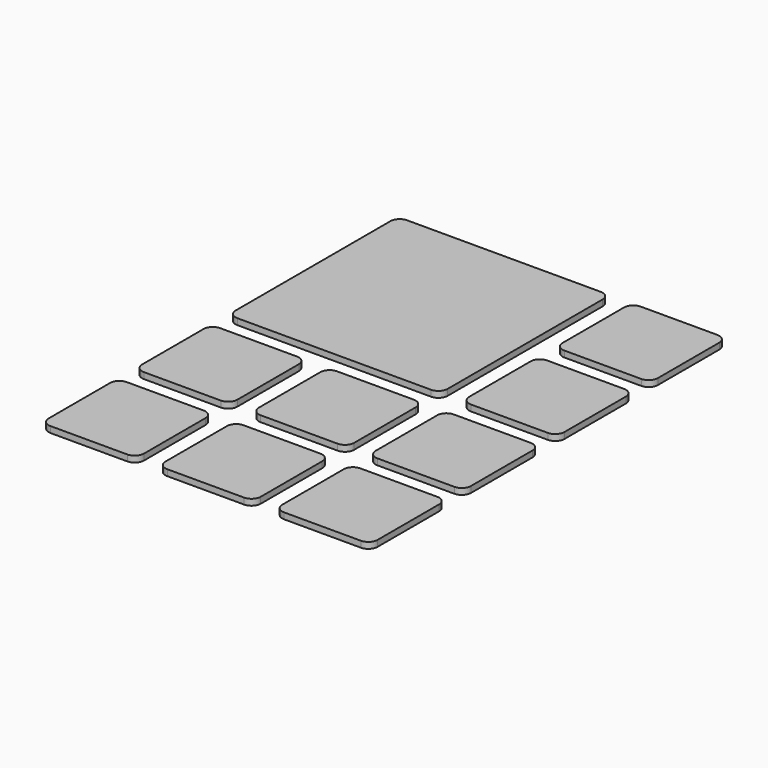
from build123d import *

# Parameters (mm, degrees)
F1_DEPTH = 1


with BuildPart() as f1:
    # F0 (on Top) → F1 (new body)
    with BuildSketch(Plane.XY):
        with BuildLine():
            Line((15.75, 17.25), (3.25, 17.25))
            ThreePointArc((3.25, 17.25), (2.18934, 16.81066), (1.75, 15.75))
            Line((1.75, 15.75), (1.75, 3.25))
            ThreePointArc((1.75, 3.25), (2.18934, 2.18934), (3.25, 1.75))
            Line((3.25, 1.75), (15.75, 1.75))
            ThreePointArc((15.75, 1.75), (16.81066, 2.18934), (17.25, 3.25))
            Line((17.25, 3.25), (17.25, 15.75))
            ThreePointArc((17.25, 15.75), (16.81066, 16.81066), (15.75, 17.25))
        make_face()
        with BuildLine():
            Line((17.25, 22.25), (17.25, 34.75))
            ThreePointArc((17.25, 34.75), (16.81066, 35.81066), (15.75, 36.25))
            Line((15.75, 36.25), (3.25, 36.25))
            ThreePointArc((3.25, 36.25), (2.18934, 35.81066), (1.75, 34.75))
            Line((1.75, 34.75), (1.75, 22.25))
            ThreePointArc((1.75, 22.25), (2.18934, 21.18934), (3.25, 20.75))
            Line((3.25, 20.75), (15.75, 20.75))
            ThreePointArc((15.75, 20.75), (16.81066, 21.18934), (17.25, 22.25))
        make_face()
        with BuildLine():
            Line((1.75, 53.75), (1.75, 41.25))
            ThreePointArc((1.75, 41.25), (2.18934, 40.18934), (3.25, 39.75))
            Line((3.25, 39.75), (15.75, 39.75))
            Line((15.75, 39.75), (22.25, 39.75))
            Line((22.25, 39.75), (34.75, 39.75))
            ThreePointArc((34.75, 39.75), (35.81066, 40.18934), (36.25, 41.25))
            Line((36.25, 41.25), (36.25, 53.75))
            Line((36.25, 53.75), (36.25, 60.25))
            Line((36.25, 60.25), (36.25, 72.75))
            ThreePointArc((36.25, 72.75), (35.81066, 73.81066), (34.75, 74.25))
            Line((34.75, 74.25), (22.25, 74.25))
            Line((22.25, 74.25), (15.75, 74.25))
            Line((15.75, 74.25), (3.25, 74.25))
            ThreePointArc((3.25, 74.25), (2.18934, 73.81066), (1.75, 72.75))
            Line((1.75, 72.75), (1.75, 60.25))
            Line((1.75, 60.25), (1.75, 53.75))
        make_face()
        with BuildLine():
            Line((36.25, 3.25), (36.25, 15.75))
            ThreePointArc((36.25, 15.75), (35.81066, 16.81066), (34.75, 17.25))
            Line((34.75, 17.25), (22.25, 17.25))
            ThreePointArc((22.25, 17.25), (21.18934, 16.81066), (20.75, 15.75))
            Line((20.75, 15.75), (20.75, 3.25))
            ThreePointArc((20.75, 3.25), (21.18934, 2.18934), (22.25, 1.75))
            Line((22.25, 1.75), (34.75, 1.75))
            ThreePointArc((34.75, 1.75), (35.81066, 2.18934), (36.25, 3.25))
        make_face()
        with BuildLine():
            Line((36.25, 22.25), (36.25, 34.75))
            ThreePointArc((36.25, 34.75), (35.81066, 35.81066), (34.75, 36.25))
            Line((34.75, 36.25), (22.25, 36.25))
            ThreePointArc((22.25, 36.25), (21.18934, 35.81066), (20.75, 34.75))
            Line((20.75, 34.75), (20.75, 22.25))
            ThreePointArc((20.75, 22.25), (21.18934, 21.18934), (22.25, 20.75))
            Line((22.25, 20.75), (34.75, 20.75))
            ThreePointArc((34.75, 20.75), (35.81066, 21.18934), (36.25, 22.25))
        make_face()
        with BuildLine():
            Line((55.25, 3.25), (55.25, 15.75))
            ThreePointArc((55.25, 15.75), (54.81066, 16.81066), (53.75, 17.25))
            Line((53.75, 17.25), (41.25, 17.25))
            ThreePointArc((41.25, 17.25), (40.18934, 16.81066), (39.75, 15.75))
            Line((39.75, 15.75), (39.75, 3.25))
            ThreePointArc((39.75, 3.25), (40.18934, 2.18934), (41.25, 1.75))
            Line((41.25, 1.75), (53.75, 1.75))
            ThreePointArc((53.75, 1.75), (54.81066, 2.18934), (55.25, 3.25))
        make_face()
        with BuildLine():
            Line((55.25, 22.25), (55.25, 34.75))
            ThreePointArc((55.25, 34.75), (54.81066, 35.81066), (53.75, 36.25))
            Line((53.75, 36.25), (41.25, 36.25))
            ThreePointArc((41.25, 36.25), (40.18934, 35.81066), (39.75, 34.75))
            Line((39.75, 34.75), (39.75, 22.25))
            ThreePointArc((39.75, 22.25), (40.18934, 21.18934), (41.25, 20.75))
            Line((41.25, 20.75), (53.75, 20.75))
            ThreePointArc((53.75, 20.75), (54.81066, 21.18934), (55.25, 22.25))
        make_face()
        with BuildLine():
            Line((55.25, 41.25), (55.25, 53.75))
            ThreePointArc((55.25, 53.75), (54.81066, 54.81066), (53.75, 55.25))
            Line((53.75, 55.25), (41.25, 55.25))
            ThreePointArc((41.25, 55.25), (40.18934, 54.81066), (39.75, 53.75))
            Line((39.75, 53.75), (39.75, 41.25))
            ThreePointArc((39.75, 41.25), (40.18934, 40.18934), (41.25, 39.75))
            Line((41.25, 39.75), (53.75, 39.75))
            ThreePointArc((53.75, 39.75), (54.81066, 40.18934), (55.25, 41.25))
        make_face()
        with BuildLine():
            Line((55.25, 60.25), (55.25, 72.75))
            ThreePointArc((55.25, 72.75), (54.81066, 73.81066), (53.75, 74.25))
            Line((53.75, 74.25), (41.25, 74.25))
            ThreePointArc((41.25, 74.25), (40.18934, 73.81066), (39.75, 72.75))
            Line((39.75, 72.75), (39.75, 60.25))
            ThreePointArc((39.75, 60.25), (40.18934, 59.18934), (41.25, 58.75))
            Line((41.25, 58.75), (53.75, 58.75))
            ThreePointArc((53.75, 58.75), (54.81066, 59.18934), (55.25, 60.25))
        make_face()
    extrude(amount=F1_DEPTH)


solid = f1.part
